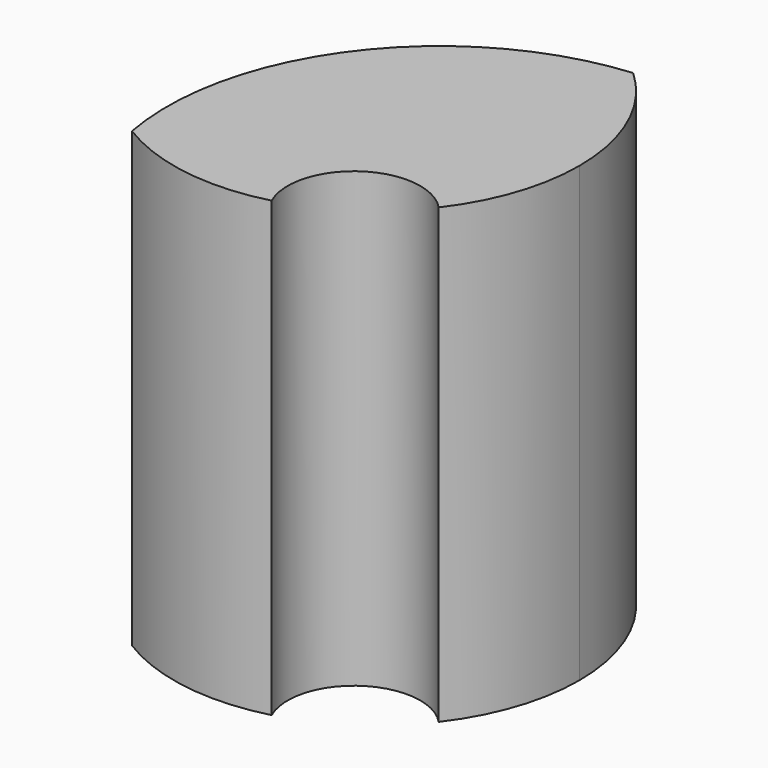
from build123d import *

# Parameters (mm, degrees)
F1_DEPTH = 25.4


with BuildPart() as f1:
    # F0 (on Top) → F1 (new body)
    with BuildSketch(Plane.XY):
        with BuildLine():
            ThreePointArc((-20.226236, 16.033584), (-18.480992, 19.298728), (-17.877907, 22.951581))
            ThreePointArc((-17.877907, 22.951581), (-18.833285, 27.512423), (-21.538781, 31.306408))
            ThreePointArc((-21.538781, 31.306408), (-32.369067, 25.32949), (-35.234556, 13.295886))
            ThreePointArc((-35.234556, 13.295886), (-30.922926, 11.712474), (-26.336696, 11.965131))
            ThreePointArc((-26.336696, 11.965131), (-25.005947, 16.589376), (-20.226236, 16.033584))
        make_face()
    extrude(amount=F1_DEPTH)


solid = f1.part
